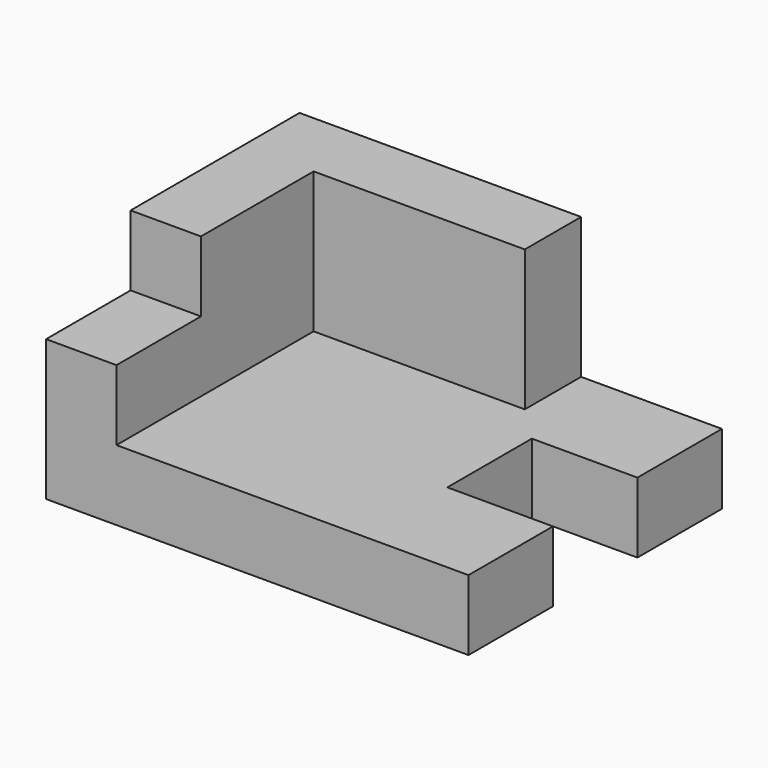
from build123d import *

# Parameters (mm, degrees)
F1_DEPTH = 10
F0_W     = 10
F0_H     = 15
F2_DEPTH = 20
F3_DEPTH = 30


with BuildPart() as f1:
    # F0 (on Top) → F1 (new body)
    with BuildSketch(Plane.XY):
        Polygon((10, 15), (10, 0), (60, 0), (60, 15), (45, 15), (45, 30), (60, 30), (60, 45), (40, 45), (40, 35), (10, 35), align=None)
    extrude(amount=F1_DEPTH)

    # F0 (on Top) → F2 (join)
    with BuildSketch(Plane.XY):
        with Locations((5, 7.5)):
            Rectangle(F0_W, F0_H)
    extrude(amount=F2_DEPTH)

    # F0 (on Top) → F3 (join)
    with BuildSketch(Plane.XY):
        Polygon((0, 45), (0, 15), (10, 15), (10, 35), (40, 35), (40, 45), align=None)
    extrude(amount=F3_DEPTH)


solid = f1.part
